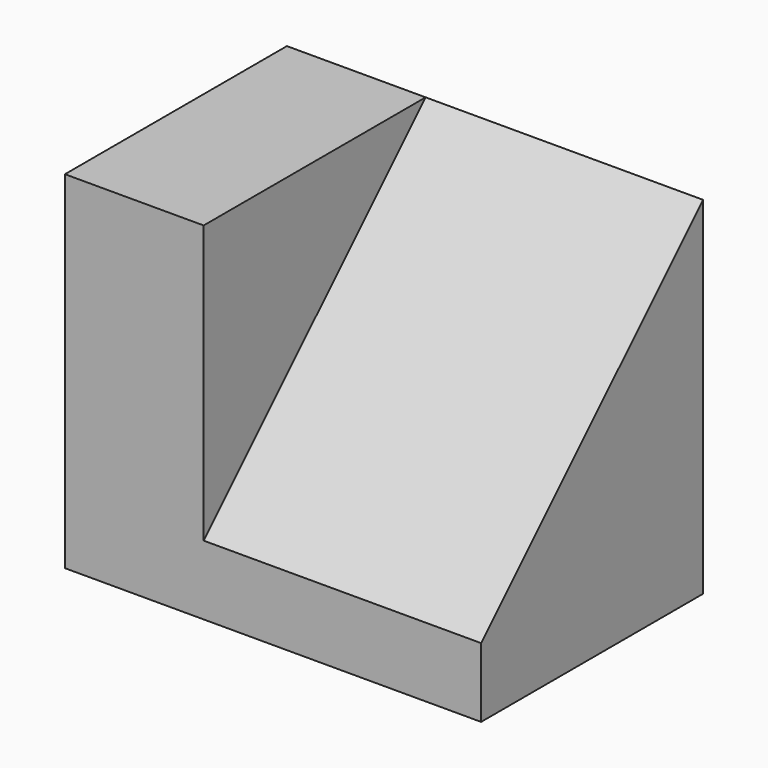
from build123d import *

# Parameters (mm, degrees)
F1_DEPTH = 25.4
F3_DEPTH = 25.4


with BuildPart() as f1:
    # F0 (on Front) → F1 (new body)
    with BuildSketch(Plane.XZ):
        Polygon((0, 31.75), (0, 0), (38.1, 0), (38.1, 31.75), (12.7, 31.75), align=None)
    extrude(amount=F1_DEPTH)

    # F2 (on face) → F3 (cut)
    with BuildSketch(Plane.YZ.offset(38.1)):
        Polygon((-25.4, 31.75), (-25.4, 6.35), (0, 31.75), align=None)
    extrude(amount=-F3_DEPTH, mode=Mode.SUBTRACT)


solid = f1.part
